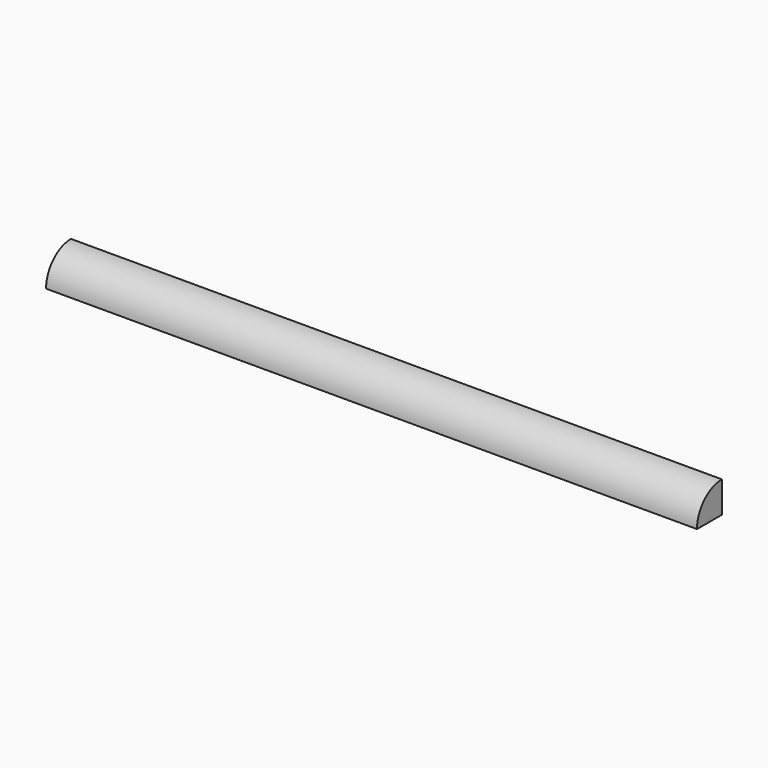
from build123d import *

# Parameters (mm, degrees)
F1_ANGLE = 90


with BuildPart() as f1:
    # F0 (on Front) → F1 (revolve)
    with BuildSketch(Plane.XZ):
        Polygon((750, 35.9), (0, 35.9), (0, 24.079584), (0, 0), (750, 0), align=None)
    revolve(axis=Axis((375, 0, 0), (1, 0, 0)), revolution_arc=F1_ANGLE)


solid = f1.part
